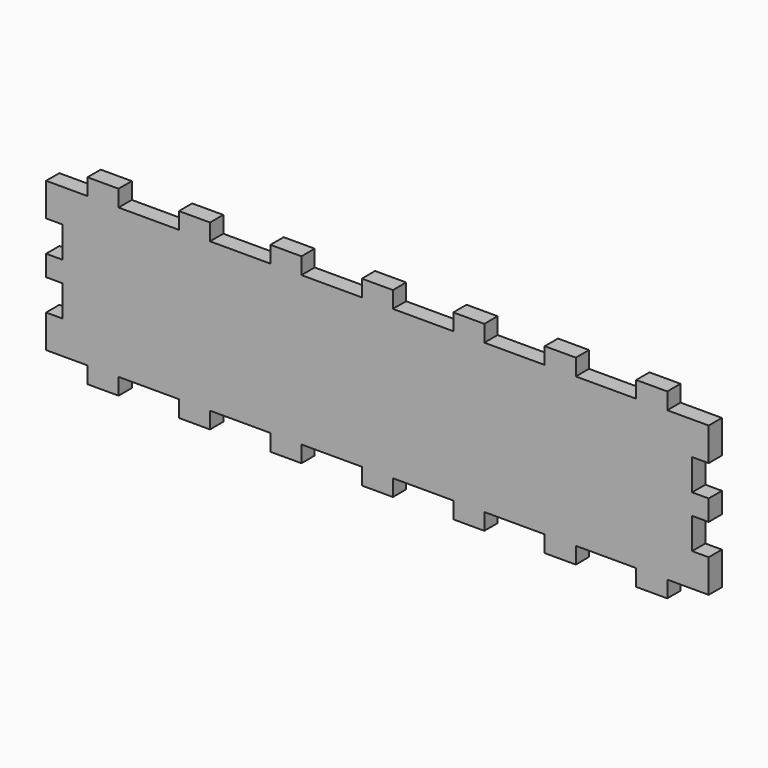
from build123d import *

# Parameters (mm, degrees)
SKETCH002_W                        = 160
SKETCH002_H                        = 36
PAD001_DEPTH                       = 4
SKETCH003_W                        = 7.5
SKETCH003_H                        = 4
PAD002_DEPTH                       = 4
SKETCH009_W                        = 7.5
SKETCH009_H                        = 4
POCKET002_DEPTH                    = 4
SKETCH009_LINEARPATTERN005_2_W     = 7.5
SKETCH009_LINEARPATTERN005_2_H     = 4
POCKET002_LINEARPATTERN005_2_DEPTH = 4
SKETCH003_LINEARPATTERN009_2_W     = 7.5
SKETCH003_LINEARPATTERN009_2_H     = 4
PAD002_LINEARPATTERN009_2_DEPTH    = 4
SKETCH003_LINEARPATTERN009_3_W     = 7.5
SKETCH003_LINEARPATTERN009_3_H     = 4
PAD002_LINEARPATTERN009_3_DEPTH    = 4
SKETCH003_LINEARPATTERN009_4_W     = 7.5
SKETCH003_LINEARPATTERN009_4_H     = 4
PAD002_LINEARPATTERN009_4_DEPTH    = 4
SKETCH003_LINEARPATTERN009_5_W     = 7.5
SKETCH003_LINEARPATTERN009_5_H     = 4
PAD002_LINEARPATTERN009_5_DEPTH    = 4
SKETCH003_LINEARPATTERN009_6_W     = 7.5
SKETCH003_LINEARPATTERN009_6_H     = 4
PAD002_LINEARPATTERN009_6_DEPTH    = 4
SKETCH003_LINEARPATTERN009_7_W     = 7.5
SKETCH003_LINEARPATTERN009_7_H     = 4
PAD002_LINEARPATTERN009_7_DEPTH    = 4
LINEARPATTERN010_COUNT             = 2
LINEARPATTERN010_PITCH             = 40


with BuildPart() as part:
    # Sketch002 → Pad001 (new body)
    with BuildSketch(Plane.XZ):
        with Locations((0, -18)):
            Rectangle(SKETCH002_W, SKETCH002_H)
    extrude(amount=-PAD001_DEPTH)

    # Sketch003 (on Face1 of Pad001) → Pad002 (join)
    with BuildSketch(Plane(origin=(0, 0, 0), x_dir=(-1, 0, 0), z_dir=(0, 0, 1))):
        with Locations((66.25, -2)):
            Rectangle(SKETCH003_W, SKETCH003_H)
    pad002 = extrude(amount=PAD002_DEPTH)

    # Sketch009 → Pocket002 (cut)
    with BuildSketch(Plane(origin=(-80, 0, 0), x_dir=(0, 0, -1), z_dir=(-1, 0, 0))):
        with Locations((11.75, -2)):
            Rectangle(SKETCH009_W, SKETCH009_H)
    pocket002 = extrude(amount=-POCKET002_DEPTH, mode=Mode.SUBTRACT)

    # Sketch009 LinearPattern005 2 → Pocket002 LinearPattern005 2 (cut)
    with BuildSketch(Plane(origin=(-80, 0, -12.5), x_dir=(0, 0, -1), z_dir=(-1, 0, 0))):
        with Locations((11.75, -2)):
            Rectangle(SKETCH009_LINEARPATTERN005_2_W, SKETCH009_LINEARPATTERN005_2_H)
    pocket002_linearpattern005_2 = extrude(amount=-POCKET002_LINEARPATTERN005_2_DEPTH, mode=Mode.SUBTRACT)

    # Mirrored: Pocket002, Pocket002 LinearPattern005 2 across YZ
    add(pocket002.mirror(Plane.YZ), mode=Mode.SUBTRACT)
    add(pocket002_linearpattern005_2.mirror(Plane.YZ), mode=Mode.SUBTRACT)

    # Sketch003 LinearPattern009 2 → Pad002 LinearPattern009 2 (add)
    with BuildSketch(Plane(origin=(22.083333, 0, 0), x_dir=(-1, 0, 0), z_dir=(0, 0, 1))):
        with Locations((66.25, -2)):
            Rectangle(SKETCH003_LINEARPATTERN009_2_W, SKETCH003_LINEARPATTERN009_2_H)
    pad002_linearpattern009_2 = extrude(amount=PAD002_LINEARPATTERN009_2_DEPTH)

    # Sketch003 LinearPattern009 3 → Pad002 LinearPattern009 3 (add)
    with BuildSketch(Plane(origin=(44.166667, 0, 0), x_dir=(-1, 0, 0), z_dir=(0, 0, 1))):
        with Locations((66.25, -2)):
            Rectangle(SKETCH003_LINEARPATTERN009_3_W, SKETCH003_LINEARPATTERN009_3_H)
    pad002_linearpattern009_3 = extrude(amount=PAD002_LINEARPATTERN009_3_DEPTH)

    # Sketch003 LinearPattern009 4 → Pad002 LinearPattern009 4 (add)
    with BuildSketch(Plane(origin=(66.25, 0, 0), x_dir=(-1, 0, 0), z_dir=(0, 0, 1))):
        with Locations((66.25, -2)):
            Rectangle(SKETCH003_LINEARPATTERN009_4_W, SKETCH003_LINEARPATTERN009_4_H)
    pad002_linearpattern009_4 = extrude(amount=PAD002_LINEARPATTERN009_4_DEPTH)

    # Sketch003 LinearPattern009 5 → Pad002 LinearPattern009 5 (add)
    with BuildSketch(Plane(origin=(88.333333, 0, 0), x_dir=(-1, 0, 0), z_dir=(0, 0, 1))):
        with Locations((66.25, -2)):
            Rectangle(SKETCH003_LINEARPATTERN009_5_W, SKETCH003_LINEARPATTERN009_5_H)
    pad002_linearpattern009_5 = extrude(amount=PAD002_LINEARPATTERN009_5_DEPTH)

    # Sketch003 LinearPattern009 6 → Pad002 LinearPattern009 6 (add)
    with BuildSketch(Plane(origin=(110.416667, 0, 0), x_dir=(-1, 0, 0), z_dir=(0, 0, 1))):
        with Locations((66.25, -2)):
            Rectangle(SKETCH003_LINEARPATTERN009_6_W, SKETCH003_LINEARPATTERN009_6_H)
    pad002_linearpattern009_6 = extrude(amount=PAD002_LINEARPATTERN009_6_DEPTH)

    # Sketch003 LinearPattern009 7 → Pad002 LinearPattern009 7 (add)
    with BuildSketch(Plane(origin=(132.5, 0, 0), x_dir=(-1, 0, 0), z_dir=(0, 0, 1))):
        with Locations((66.25, -2)):
            Rectangle(SKETCH003_LINEARPATTERN009_7_W, SKETCH003_LINEARPATTERN009_7_H)
    pad002_linearpattern009_7 = extrude(amount=PAD002_LINEARPATTERN009_7_DEPTH)

    # LinearPattern010: Pad002, Pad002 LinearPattern009 2, Pad002 LinearPattern009 3, Pad002 LinearPattern009 4, Pad002 LinearPattern009 5, Pad002 LinearPattern009 6, Pad002 LinearPattern009 7 ×2
    with Locations(*[(0, 0, -i * LINEARPATTERN010_PITCH) for i in range(1, LINEARPATTERN010_COUNT)]):
        add(pad002)
        add(pad002_linearpattern009_2)
        add(pad002_linearpattern009_3)
        add(pad002_linearpattern009_4)
        add(pad002_linearpattern009_5)
        add(pad002_linearpattern009_6)
        add(pad002_linearpattern009_7)


with BuildPart() as part_1:
    # Body001 placement: moved
    add(part.part.moved(Location((0, -30, 0))))


solid = part_1.part
